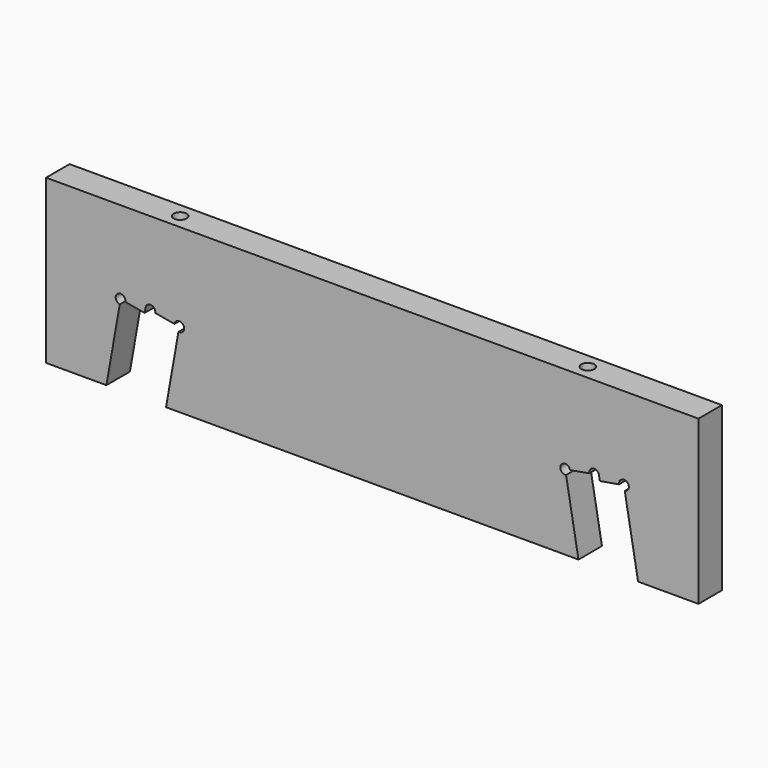
from build123d import *

# Parameters (mm, degrees)
F1_DEPTH = 18
F3_D     = 8
F3_DEPTH = 16
F3_TIP   = 2.4034424761


with BuildPart() as f1:
    # F0 (on Front) → F1 (new body)
    with BuildSketch(Plane.XZ):
        with BuildLine():
            Line((400, 0), (0, 0))
            Line((0, 0), (0, -100))
            Line((0, -100), (37, -100))
            Line((37, -100), (45.1614643503, -53.7140356084))
            ThreePointArc((45.1614643503, -53.7140356084), (43.9616795743, -48.3021562165), (48.6368321424, -51.2805568824))
            Line((48.6368321424, -51.2805568824), (60.4545251785, -53.3643350144))
            Line((60.4545251785, -53.3643350144), (61.0056646383, -50.2386678164))
            ThreePointArc((61.0056646383, -50.2386678164), (64.4810324303, -47.8051890904), (66.9145111563, -51.2805568824))
            Line((66.9145111563, -51.2805568824), (78.7322041925, -53.3643350144))
            ThreePointArc((78.7322041925, -53.3643350144), (84.1440835844, -52.1645502383), (81.1656829185, -56.8397028064))
            Line((81.1656829185, -56.8397028064), (73.5553580279, -100))
            Line((73.5553580279, -100), (326.4446419721, -100))
            Line((326.4446419721, -100), (318.8343170815, -56.8397028064))
            ThreePointArc((318.8343170815, -56.8397028064), (315.8559164156, -52.1645502383), (321.2677958075, -53.3643350144))
            Line((321.2677958075, -53.3643350144), (333.0854888437, -51.2805568824))
            ThreePointArc((333.0854888437, -51.2805568824), (335.5189675697, -47.8051890904), (338.9943353617, -50.2386678164))
            Line((338.9943353617, -50.2386678164), (339.5454748215, -53.3643350144))
            Line((339.5454748215, -53.3643350144), (351.3631678576, -51.2805568824))
            ThreePointArc((351.3631678576, -51.2805568824), (356.0383204257, -48.3021562165), (354.8385356497, -53.7140356084))
            Line((354.8385356497, -53.7140356084), (363, -100))
            Line((363, -100), (400, -100))
            Line((400, -100), (400, 0))
        make_face()
    extrude(amount=F1_DEPTH)

    # F3
    with Locations(Plane.XY):
        with Locations((75, -9), (325, -9)):
            Hole(F3_D / 2, depth=F3_DEPTH)
            with Locations((0, 0, -(F3_DEPTH + F3_TIP / 2))):  # 118° drill point
                Cone(0, F3_D / 2, F3_TIP, mode=Mode.SUBTRACT)


solid = f1.part
